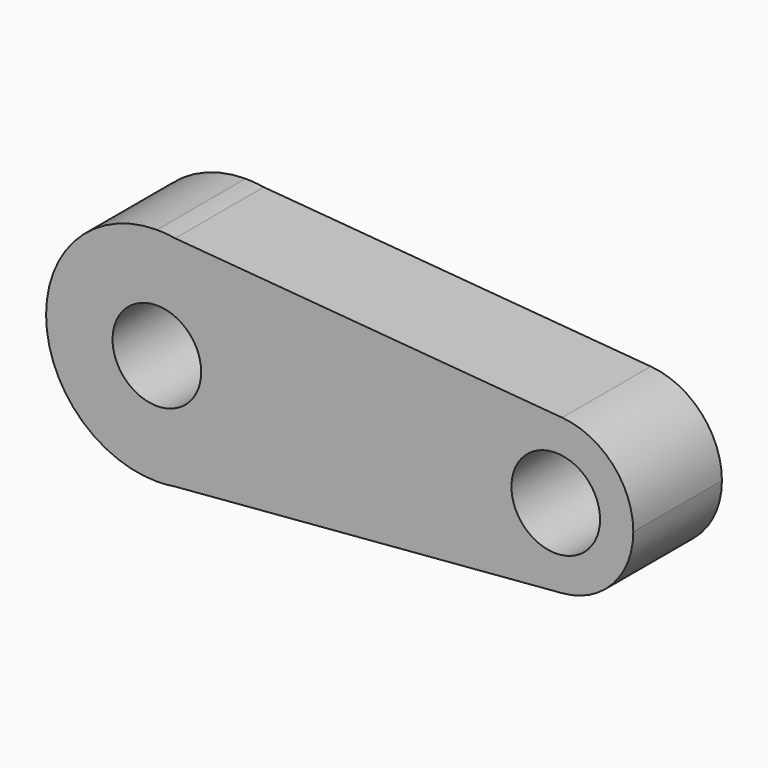
from build123d import *

# Parameters (mm, degrees)
F0_R     = 10
F1_DEPTH = 25


with BuildPart() as f1:
    # F0 (on Front) → F1 (new body)
    with BuildSketch(Plane.XZ):
        with BuildLine():
            ThreePointArc((91.441807, -17.440504), (102.874036, -11.853657), (107.5, 0))
            ThreePointArc((107.5, 0), (102.874036, 11.853657), (91.441807, 17.440504))
            ThreePointArc((91.441807, 17.440504), (72.5, 0), (91.441807, -17.440504))
        make_face()
        with Locations((90, 0)):
            Circle(F0_R, mode=Mode.SUBTRACT)
        with BuildLine():
            ThreePointArc((91.441807, -17.440504), (72.5, 0), (91.441807, 17.440504))
            Line((91.441807, 17.440504), (4.105443, 24.660603))
            ThreePointArc((4.105443, 24.660603), (19.074015, 16.161125), (25, 0))
            ThreePointArc((25, 0), (19.074015, -16.161125), (4.105443, -24.660603))
            Line((4.105443, -24.660603), (91.441807, -17.440504))
        make_face()
        with BuildLine():
            Line((0, 25), (4.105443, 24.660603))
            ThreePointArc((4.105443, 24.660603), (2.059724, 24.915006), (0, 25))
        make_face()
        with BuildLine():
            ThreePointArc((25, 0), (19.074015, 16.161125), (4.105443, 24.660603))
            Line((4.105443, 24.660603), (0, 25))
            ThreePointArc((0, 25), (-25, 0), (0, -25))
            Line((0, -25), (4.105443, -24.660603))
            ThreePointArc((4.105443, -24.660603), (19.074015, -16.161125), (25, 0))
        make_face()
        Circle(F0_R, mode=Mode.SUBTRACT)
        with BuildLine():
            ThreePointArc((0, -25), (2.059724, -24.915006), (4.105443, -24.660603))
            Line((4.105443, -24.660603), (0, -25))
        make_face()
    extrude(amount=F1_DEPTH)


solid = f1.part
